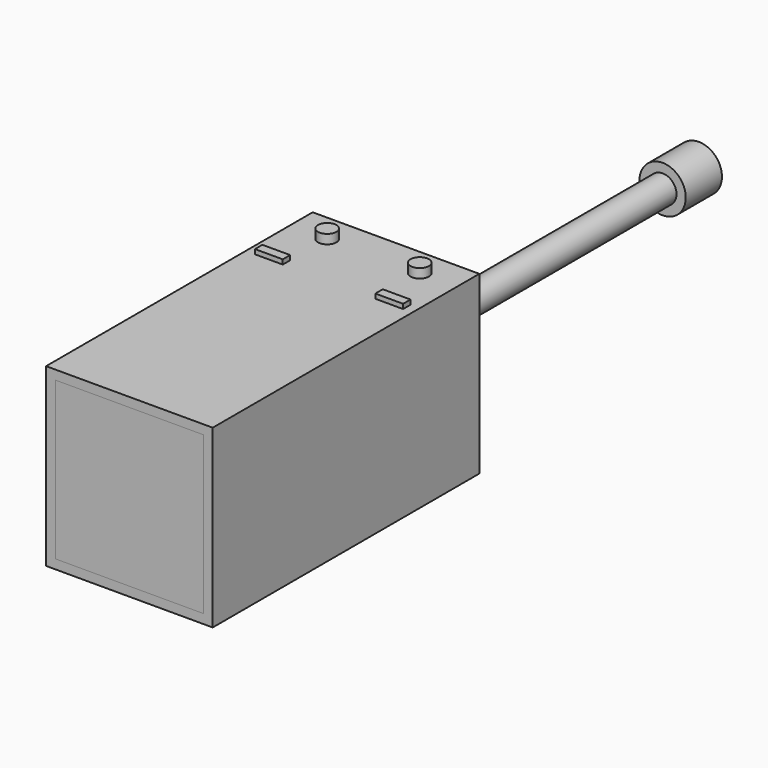
from build123d import *

# Parameters (mm, degrees)
F0_W      = 457.2
F0_H      = 914.4
F1_DEPTH  = 25.4
F2_W      = 25.4
F2_H      = 914.4
F3_DEPTH  = 457.2
F4_W      = 25.4
F4_H      = 914.4
F5_DEPTH  = 457.2
F6_W      = 914.4
F6_H      = 25.4
F7_DEPTH  = 431.8
F8_W      = 406.4
F8_H      = 431.8
F9_DEPTH  = 25.4
F10_W     = 406.4
F10_H     = 431.8
F11_DEPTH = 25.4
F12_R     = 25.4
F13_DEPTH = 25.4
F12_W     = 76.2
F12_H     = 25.4
F14_DEPTH = 12.7
F15_W     = 381
F15_H     = 280.0061702728
F16_DEPTH = 12.7
F17_R     = 38.1
F17_R_2   = 31.75
F18_DEPTH = 914.4
F19_R     = 63.5
F19_R_2   = 38.1
F19_R_3   = 31.75
F20_DEPTH = 124.21073


with BuildPart() as f1:
    # F0 (on Top) → F1 (new body)
    with BuildSketch(Plane.XY):
        with Locations((0, 457.2)):
            Rectangle(F0_W, F0_H)
    extrude(amount=F1_DEPTH)

    # F2 (on face) → F3 (join)
    with BuildSketch(Plane.XY.offset(25.4)):
        with Locations((-215.9, 457.2)):
            Rectangle(F2_W, F2_H)
    extrude(amount=F3_DEPTH)

    # F4 (on face) → F5 (join)
    with BuildSketch(Plane.XY.offset(25.4)):
        with Locations((215.9, 457.2)):
            Rectangle(F4_W, F4_H)
    extrude(amount=F5_DEPTH)

    # F6 (on face) → F7 (join)
    with BuildSketch(Plane(origin=(203.2, 0, 0), x_dir=(0, -1, 0), z_dir=(-1, 0, 0))):
        with Locations((-457.2, 469.9)):
            Rectangle(F6_W, F6_H)
    extrude(amount=F7_DEPTH)

    # F12 (on face) → F13 (join)
    with BuildSketch(Plane.XY.offset(482.6)):
        with Locations((127, 837.1241350174)):
            Circle(F12_R)
        with Locations((-127, 837.1241350174)):
            Circle(F12_R)
    extrude(amount=F13_DEPTH)

    # F12 (on face) → F14 (join)
    with BuildSketch(Plane.XY.offset(482.6)):
        with Locations((-165.1, 697.4241350174)):
            Rectangle(F12_W, F12_H)
        with Locations((165.1, 697.4241350174)):
            Rectangle(F12_W, F12_H)
    extrude(amount=F14_DEPTH)

    # F15 (on face) → F16 (join)
    with BuildSketch(Plane(origin=(0, 0, 0), x_dir=(1, 0, 0), z_dir=(0, 0, -1))):
        with Locations((0, -663.1627082825)):
            Rectangle(F15_W, F15_H)
    extrude(amount=F16_DEPTH)


with BuildPart() as f9:
    # F8 (on face) → F9 (new body)
    with BuildSketch(Plane.XZ):
        with Locations((0, 241.3)):
            Rectangle(F8_W, F8_H)
    extrude(amount=-F9_DEPTH)


with BuildPart() as f11:
    # F10 (on face) → F11 (new body)
    with BuildSketch(Plane(origin=(0, 914.4, 0), x_dir=(-1, 0, 0), z_dir=(0, 1, 0))):
        with Locations((0, 241.3)):
            Rectangle(F10_W, F10_H)
    extrude(amount=-F11_DEPTH)

    # F17 (on face) → F18 (join)
    with BuildSketch(Plane(origin=(0, 914.4, 0), x_dir=(-1, 0, 0), z_dir=(0, 1, 0))):
        with Locations((0, 241.3)):
            Circle(F17_R)
        with Locations((0, 241.3)):
            Circle(F17_R_2, mode=Mode.SUBTRACT)
    extrude(amount=F18_DEPTH)

    # F19 (on face) → F20 (join)
    with BuildSketch(Plane(origin=(0, 1828.8, 0), x_dir=(-1, 0, 0), z_dir=(0, 1, 0))):
        with Locations((0, 241.3)):
            Circle(F19_R)
        with Locations((0, 241.3)):
            Circle(F19_R_2, mode=Mode.SUBTRACT)
        with Locations((0, 241.3)):
            Circle(F19_R_2)
        with Locations((0, 241.3)):
            Circle(F19_R_3, mode=Mode.SUBTRACT)
        with Locations((0, 241.3)):
            Circle(F19_R_3)
    extrude(amount=F20_DEPTH)


solid = Compound([f1.part, f9.part, f11.part])
